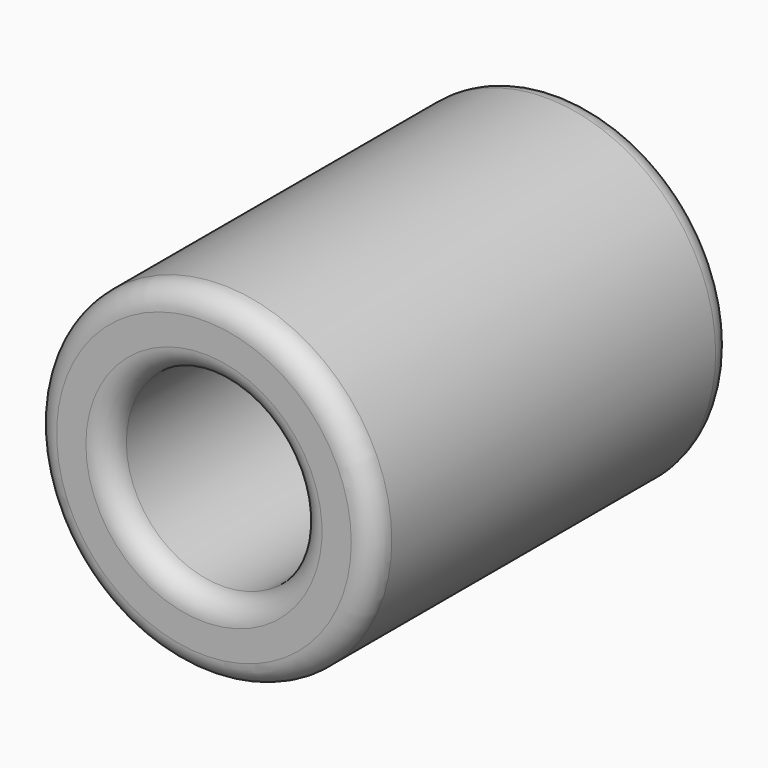
from build123d import *

# Parameters (mm, degrees)
F0_R     = 38.355059125
F1_DEPTH = 101.6
F3_D     = 43.18
F4_R     = 5.08
F5_R     = 5.08


with BuildPart() as f1:
    # F0 (on Front) → F1 (new body)
    with BuildSketch(Plane.XZ):
        with Locations((-10.8512658626, 16.4939239621)):
            Circle(F0_R)
    extrude(amount=F1_DEPTH)

    # F3 (through all)
    with Locations(Plane.XZ.offset(101.6)):
        with Locations((-10.8512658626, 16.4939239621)):
            Hole(F3_D / 2)

    # F4
    f4_edges = [f1.edges().sort_by_distance(p)[0] for p in [
        (-49.206325, 0, 16.493924),
        (-32.441266, 0, 16.493924),
    ]]
    fillet(f4_edges, radius=F4_R)

    # F5
    f5_edges = [f1.edges().sort_by_distance(p)[0] for p in [
        (-49.206325, -101.6, 16.493924),
        (-32.441266, -101.6, 16.493924),
    ]]
    fillet(f5_edges, radius=F5_R)


solid = f1.part
